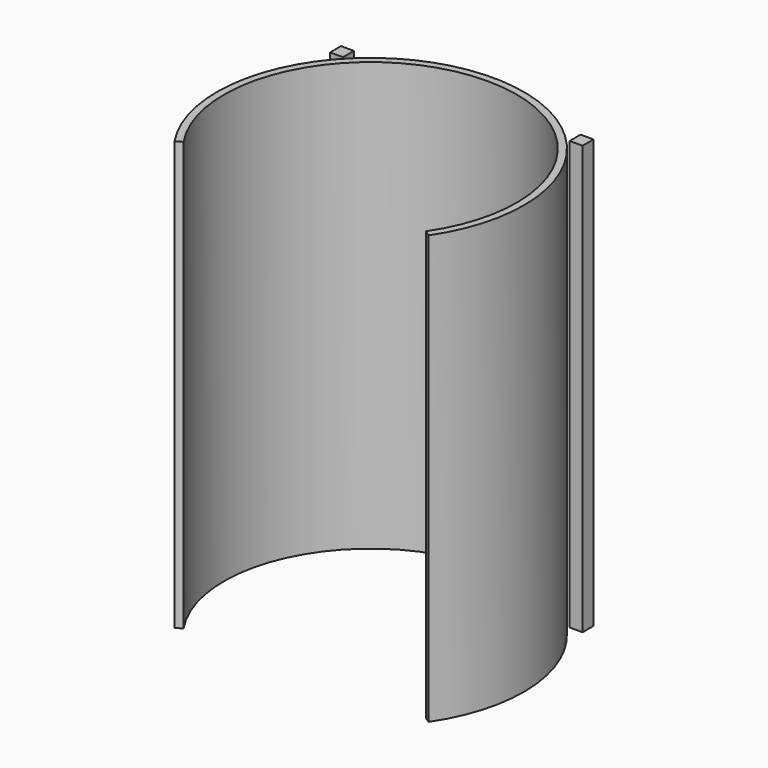
from build123d import *

# Parameters (mm, degrees)
F1_DEPTH = 60
F0_W     = 1.812323
F0_H     = 1.919401
F2_DEPTH = 60
F3_DEPTH = 60


with BuildPart() as f1:
    # F0 (on Top) → F1 (new body)
    with BuildSketch(Plane.XY):
        with BuildLine():
            ThreePointArc((-16.963577, -11.510303), (0, 20.5), (16.963577, -11.510303))
            Line((16.963577, -11.510303), (17.798148, -12.06134))
            ThreePointArc((17.798148, -12.06134), (0, 21.5), (-17.798148, -12.06134))
            Line((-17.798148, -12.06134), (-16.963577, -11.510303))
        make_face()
    extrude(amount=F1_DEPTH)


with BuildPart() as f2:
    # F0 (on Top) → F2 (new body)
    with BuildSketch(Plane.XY):
        with Locations((-16.78059, 15.994024)):
            Rectangle(F0_W, F0_H)
    extrude(amount=F2_DEPTH)


with BuildPart() as f3:
    # F0 (on Top) → F3 (new body)
    with BuildSketch(Plane.XY):
        with Locations((16.78059, 15.994024)):
            Rectangle(F0_W, F0_H)
    extrude(amount=F3_DEPTH)


solid = Compound([f1.part, f2.part, f3.part])
